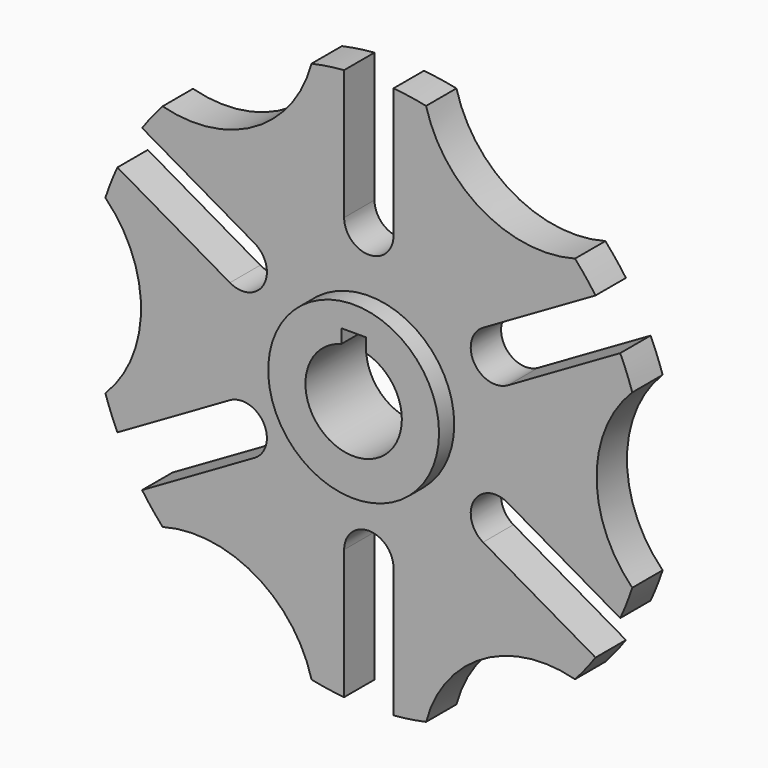
from build123d import *

# Parameters (mm, degrees)
F0_R     = 22.5
F1_DEPTH = 10
F2_R     = 22.5
F3_DEPTH = 5


with BuildPart() as f1:
    # F0 (on Front) → F1 (new body, symmetric)
    with BuildSketch(Plane.XZ):
        Circle(F0_R)
        with BuildLine():
            ThreePointArc((3.25, 12.277113), (10.063921, 7.746451), (12.7, 0))
            ThreePointArc((12.7, 0), (-7.746451, -10.063921), (-3.25, 12.277113))
            Line((-3.25, 12.277113), (-3.25, 15.95))
            Line((-3.25, 15.95), (0, 15.95))
            Line((0, 15.95), (3.25, 15.95))
            Line((3.25, 15.95), (3.25, 12.277113))
        make_face(mode=Mode.SUBTRACT)
    extrude(amount=F1_DEPTH, both=True)

    # F2 (on Front) → F3 (join, symmetric)
    with BuildSketch(Plane.XZ):
        with BuildLine():
            ThreePointArc((69.396739, -22.651547), (60, 0), (69.396739, 22.651547))
            ThreePointArc((69.396739, 22.651547), (67.927817, 26.735963), (66.218742, 30.725855))
            Line((66.218742, 30.725855), (36.591978, 13.620835))
            ThreePointArc((36.591978, 13.620835), (27.712813, 16), (30.091978, 24.879165))
            Line((30.091978, 24.879165), (59.718742, 41.984185))
            ThreePointArc((59.718742, 41.984185), (57.117931, 45.459234), (54.315185, 48.773565))
            ThreePointArc((54.315185, 48.773565), (30, 51.961524), (15.081554, 71.425113))
            ThreePointArc((15.081554, 71.425113), (10.809886, 72.195196), (6.5, 72.710041))
            Line((6.5, 72.710041), (6.5, 38.5))
            ThreePointArc((6.5, 38.5), (0, 32), (-6.5, 38.5))
            Line((-6.5, 38.5), (-6.5, 72.710041))
            ThreePointArc((-6.5, 72.710041), (-10.809886, 72.195196), (-15.081554, 71.425113))
            ThreePointArc((-15.081554, 71.425113), (-30, 51.961524), (-54.315185, 48.773565))
            ThreePointArc((-54.315185, 48.773565), (-57.117931, 45.459234), (-59.718742, 41.984185))
            Line((-59.718742, 41.984185), (-30.091978, 24.879165))
            ThreePointArc((-30.091978, 24.879165), (-27.712813, 16), (-36.591978, 13.620835))
            Line((-36.591978, 13.620835), (-66.218742, 30.725855))
            ThreePointArc((-66.218742, 30.725855), (-67.927817, 26.735963), (-69.396739, 22.651547))
            ThreePointArc((-69.396739, 22.651547), (-60, 0), (-69.396739, -22.651547))
            ThreePointArc((-69.396739, -22.651547), (-67.927817, -26.735963), (-66.218742, -30.725855))
            Line((-66.218742, -30.725855), (-36.591978, -13.620835))
            ThreePointArc((-36.591978, -13.620835), (-27.712813, -16), (-30.091978, -24.879165))
            Line((-30.091978, -24.879165), (-59.718742, -41.984185))
            ThreePointArc((-59.718742, -41.984185), (-57.117931, -45.459234), (-54.315185, -48.773565))
            ThreePointArc((-54.315185, -48.773565), (-30, -51.961524), (-15.081554, -71.425113))
            ThreePointArc((-15.081554, -71.425113), (-10.809886, -72.195196), (-6.5, -72.710041))
            Line((-6.5, -72.710041), (-6.5, -38.5))
            ThreePointArc((-6.5, -38.5), (0, -32), (6.5, -38.5))
            Line((6.5, -38.5), (6.5, -72.710041))
            ThreePointArc((6.5, -72.710041), (10.809886, -72.195196), (15.081554, -71.425113))
            ThreePointArc((15.081554, -71.425113), (30, -51.961524), (54.315185, -48.773565))
            ThreePointArc((54.315185, -48.773565), (57.117931, -45.459234), (59.718742, -41.984185))
            Line((59.718742, -41.984185), (30.091978, -24.879165))
            ThreePointArc((30.091978, -24.879165), (27.712813, -16), (36.591978, -13.620835))
            Line((36.591978, -13.620835), (66.218742, -30.725855))
            ThreePointArc((66.218742, -30.725855), (67.927817, -26.735963), (69.396739, -22.651547))
        make_face()
        Circle(F2_R, mode=Mode.SUBTRACT)
    extrude(amount=F3_DEPTH, both=True)


solid = f1.part
